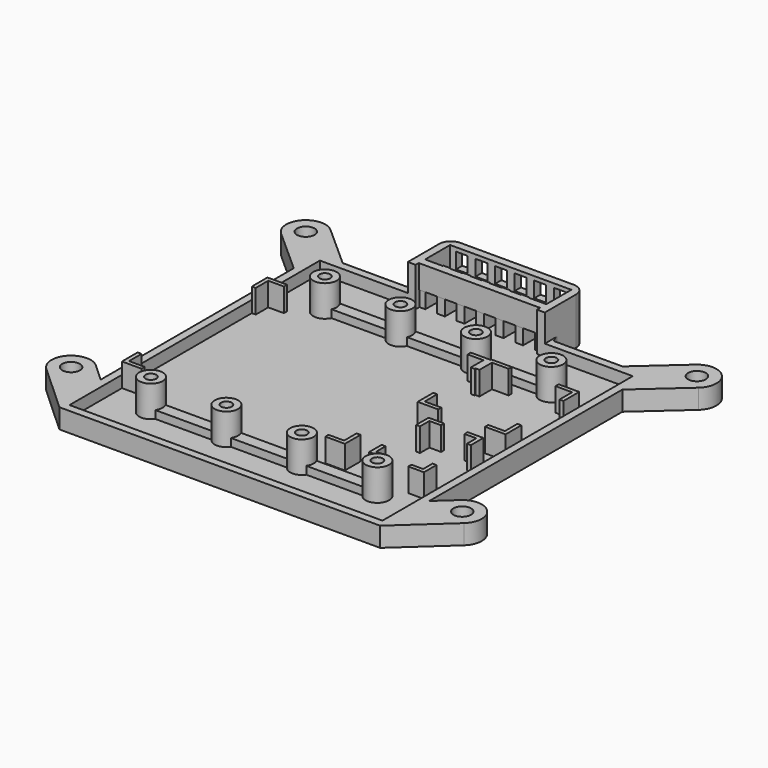
from build123d import *

# Parameters (mm, degrees)
PAD042_DEPTH    = 5
PAD043_DEPTH    = 2
SKETCH114_R     = 3
SKETCH114_R_2   = 1.375
PAD045_DEPTH    = 10
SKETCH215_W     = 16
SKETCH215_H     = 3
PAD095_DEPTH    = 4
SKETCH216_R     = 2.25
POCKET088_DEPTH = 10
SKETCH255_R     = 1.5
POCKET103_DEPTH = 5
PAD_DEPTH       = 12
SKETCH257_W     = 10
SKETCH257_H     = 2
PAD096_DEPTH    = 6
SKETCH258_W     = 2
SKETCH258_H     = 2
PAD097_DEPTH    = 12
SKETCH260_W     = 34
SKETCH260_H     = 2
PAD098_DEPTH    = 6
FILLET_R        = 3
SKETCH261_W     = 3
SKETCH261_H     = 4
POCKET_DEPTH    = 5
PAD099_DEPTH    = 8
PAD100_DEPTH    = 8
PAD101_DEPTH    = 8


with BuildPart() as part:
    # Sketch111 → Pad042 (new body)
    with BuildSketch(Plane.XY):
        with BuildLine():
            Line((42, 34.161779), (42, -27.538221))
            Line((46.626702, -23.309355), (42, -27.538221))
            ThreePointArc((53.373298, -30.690645), (53.690645, -23.626702), (46.626702, -23.309355))
            Line((41, -42), (53.373298, -30.690645))
            Line((41, -42), (-41, -42))
            Line((-53.373298, -30.690645), (-41, -42))
            ThreePointArc((-46.626702, -23.309355), (-53.690645, -23.626702), (-53.373298, -30.690645))
            Line((-46.626702, -23.309355), (-42, -27.538221))
            Line((-42, -27.538221), (-42, 34.161779))
            Line((-42, 34.161779), (-53.328684, 44.269067))
            ThreePointArc((-46.671316, 51.730933), (-53.730933, 51.328684), (-53.328684, 44.269067))
            Line((-35.764466, 42), (-46.671316, 51.730933))
            Line((-35.764466, 42), (-18.264466, 42))
            ThreePointArc((-18.264466, 42), (-17.583594, 43.4239), (-17.5, 45))
            Line((-17.5, 53), (-17.5, 45))
            Line((17.5, 53), (-17.5, 53))
            Line((17.5, 53), (17.5, 45))
            ThreePointArc((17.5, 45), (17.583594, 43.4239), (18.264466, 42))
            Line((35.764466, 42), (18.264466, 42))
            Line((46.671316, 51.730933), (35.764466, 42))
            ThreePointArc((53.328684, 44.269067), (53.730933, 51.328684), (46.671316, 51.730933))
            Line((42, 34.161779), (53.328684, 44.269067))
        make_face()
        Polygon((-40, 40), (-40, -40), (40, -40), (40, 40), (15.5, 40), (15.5, 51), (-15.5, 51), (-15.5, 40), align=None, mode=Mode.SUBTRACT)
    extrude(amount=PAD042_DEPTH)

    # Sketch112 → Pad043 (join)
    with BuildSketch(Plane.XY):
        Polygon((41, 41), (41, -41), (-41, -41), (-41, 41), (-16, 41), (-16, 53), (16, 53), (16, 41), align=None)
    extrude(amount=PAD043_DEPTH)

    # Sketch114 → Pad045 (join)
    with BuildSketch(Plane.XY):
        with Locations((-28.95, 27.805)):
            Circle(SKETCH114_R)
        with Locations((-28.95, 27.805)):
            Circle(SKETCH114_R_2, mode=Mode.SUBTRACT)
        with Locations((-9.65, 27.805)):
            Circle(SKETCH114_R)
        with Locations((-9.65, 27.805)):
            Circle(SKETCH114_R_2, mode=Mode.SUBTRACT)
        with Locations((9.65, 27.805)):
            Circle(SKETCH114_R)
        with Locations((9.65, 27.805)):
            Circle(SKETCH114_R_2, mode=Mode.SUBTRACT)
        with Locations((28.95, 27.805)):
            Circle(SKETCH114_R)
        with Locations((28.95, 27.805)):
            Circle(SKETCH114_R_2, mode=Mode.SUBTRACT)
        with Locations((28.95, -27.805)):
            Circle(SKETCH114_R)
        with Locations((28.95, -27.805)):
            Circle(SKETCH114_R_2, mode=Mode.SUBTRACT)
        with Locations((9.65, -27.805)):
            Circle(SKETCH114_R)
        with Locations((9.65, -27.805)):
            Circle(SKETCH114_R_2, mode=Mode.SUBTRACT)
        with Locations((-9.65, -27.805)):
            Circle(SKETCH114_R)
        with Locations((-9.65, -27.805)):
            Circle(SKETCH114_R_2, mode=Mode.SUBTRACT)
        with Locations((-28.95, -27.805)):
            Circle(SKETCH114_R)
        with Locations((-28.95, -27.805)):
            Circle(SKETCH114_R_2, mode=Mode.SUBTRACT)
    extrude(amount=PAD045_DEPTH)

    # Sketch215 → Pad095 (join)
    with BuildSketch(Plane.XY):
        with Locations((-20, 28)):
            Rectangle(SKETCH215_W, SKETCH215_H)
        with Locations((20, 28)):
            Rectangle(SKETCH215_W, SKETCH215_H)
        with Locations((-20, -28)):
            Rectangle(SKETCH215_W, SKETCH215_H)
        with Locations((20, -28)):
            Rectangle(SKETCH215_W, SKETCH215_H)
        with Locations((0, 28)):
            Rectangle(SKETCH215_W, SKETCH215_H)
        with Locations((0, -28)):
            Rectangle(SKETCH215_W, SKETCH215_H)
    extrude(amount=PAD095_DEPTH)

    # Sketch216 → Pocket088 (cut)
    with BuildSketch(Plane.XY):
        with Locations((-50, 48)):
            Circle(SKETCH216_R)
        with Locations((50, 48)):
            Circle(SKETCH216_R)
        with Locations((50, -27)):
            Circle(SKETCH216_R)
        with Locations((-50, -27)):
            Circle(SKETCH216_R)
    extrude(amount=POCKET088_DEPTH, mode=Mode.SUBTRACT)

    # Sketch255 → Pocket103 (cut, symmetric)
    with BuildSketch(Plane.XY):
        with Locations((-9.65, 27.805)):
            Circle(SKETCH255_R)
        with Locations((9.65, 27.805)):
            Circle(SKETCH255_R)
        with Locations((-9.65, -27.805)):
            Circle(SKETCH255_R)
        with Locations((9.65, -27.805)):
            Circle(SKETCH255_R)
        with Locations((-28.95, 27.805)):
            Circle(SKETCH255_R)
        with Locations((28.95, 27.805)):
            Circle(SKETCH255_R)
        with Locations((28.95, -27.805)):
            Circle(SKETCH255_R)
        with Locations((-28.95, -27.805)):
            Circle(SKETCH255_R)
    extrude(amount=POCKET103_DEPTH, both=True, mode=Mode.SUBTRACT)

    # Sketch → Pad (join)
    with BuildSketch(Plane.XY):
        Polygon((-17.5, 53), (-17.5, 40), (-15.5, 40), (-15.5, 51), (15.5, 51), (15.5, 40), (17.5, 40), (17.5, 53), (15.5, 53), (-15.5, 53), align=None)
    extrude(amount=PAD_DEPTH)

    # Sketch257 → Pad096 (join)
    with BuildSketch(Plane(origin=(0, 0, 0), x_dir=(0, -1, 0), z_dir=(0, 0, 1))):
        with Locations((-46.2, 15)):
            Rectangle(SKETCH257_W, SKETCH257_H)
        with Locations((-46.2, -15)):
            Rectangle(SKETCH257_W, SKETCH257_H)
        with Locations((-46.2, 10)):
            Rectangle(SKETCH257_W, SKETCH257_H)
        with Locations((-46.2, 5)):
            Rectangle(SKETCH257_W, SKETCH257_H)
        with Locations((-46.2, 0)):
            Rectangle(SKETCH257_W, SKETCH257_H)
        with Locations((-46.2, -5)):
            Rectangle(SKETCH257_W, SKETCH257_H)
        with Locations((-46.2, -10)):
            Rectangle(SKETCH257_W, SKETCH257_H)
    extrude(amount=PAD096_DEPTH)

    # Sketch258 → Pad097 (join)
    with BuildSketch(Plane(origin=(0, 0, 0), x_dir=(0, -1, 0), z_dir=(0, 0, 1))):
        with Locations((-42.2, 10)):
            Rectangle(SKETCH258_W, SKETCH258_H)
        with Locations((-42.2, 5)):
            Rectangle(SKETCH258_W, SKETCH258_H)
        with Locations((-42.2, 0)):
            Rectangle(SKETCH258_W, SKETCH258_H)
        with Locations((-42.2, -5)):
            Rectangle(SKETCH258_W, SKETCH258_H)
        with Locations((-42.2, -10)):
            Rectangle(SKETCH258_W, SKETCH258_H)
    extrude(amount=PAD097_DEPTH)

    # Sketch260 (on Face114 of Pad097) → Pad098 (join)
    with BuildSketch(Plane.XY.offset(12)):
        with Locations((0, 42)):
            Rectangle(SKETCH260_W, SKETCH260_H)
    extrude(amount=-PAD098_DEPTH)

    # Fillet
    fillet_edges = [part.edges().sort_by_distance(p)[0] for p in [
        (-17.5, 53, 6),
        (17.5, 53, 6),
    ]]
    fillet(fillet_edges, radius=FILLET_R)

    # Sketch261 (on Face5 of Fillet) → Pocket (cut)
    with BuildSketch(Plane(origin=(0, 53, 0), x_dir=(-1, 0, 0), z_dir=(0, 1, 0))):
        with Locations((-12.5, 9)):
            Rectangle(SKETCH261_W, SKETCH261_H)
        with Locations((-7.5, 9)):
            Rectangle(SKETCH261_W, SKETCH261_H)
        with Locations((-2.5, 9)):
            Rectangle(SKETCH261_W, SKETCH261_H)
        with Locations((2.5, 9)):
            Rectangle(SKETCH261_W, SKETCH261_H)
        with Locations((7.5, 9)):
            Rectangle(SKETCH261_W, SKETCH261_H)
        with Locations((12.5, 9)):
            Rectangle(SKETCH261_W, SKETCH261_H)
    extrude(amount=-POCKET_DEPTH, mode=Mode.SUBTRACT)

    # Sketch262 → Pad099 (join)
    with BuildSketch(Plane.XY):
        Polygon((-39, -22.25), (-35, -22.25), (-35, -23.25), (-40, -23.25), (-40, -18.25), (-39, -18.25), align=None)
        Polygon((-39, 22.25), (-35, 22.25), (-35, 23.25), (-40, 23.25), (-40, 18.25), (-39, 18.25), align=None)
        Polygon((16, -22.25), (12, -22.25), (12, -23.25), (17, -23.25), (17, -18.25), (16, -18.25), align=None)
        Polygon((16, 22.25), (12, 22.25), (12, 23.25), (17, 23.25), (17, 18.25), (16, 18.25), align=None)
    extrude(amount=PAD099_DEPTH)

    # Sketch263 → Pad100 (join)
    with BuildSketch(Plane.XY):
        Polygon((18, 18.5), (17, 18.5), (17, 23.5), (22.25, 23.5), (22.25, 22.5), (18, 22.5), align=None)
        Polygon((38.5, 22.5), (38.5, 18.5), (39.5, 18.5), (39.5, 23.5), (34.25, 23.5), (34.25, 22.5), align=None)
        Polygon((18, 1), (18, 5), (17, 5), (17, 0), (22.25, 0), (22.25, 1), align=None)
        Polygon((38.5, 1), (38.5, 5), (39.5, 5), (39.5, 0), (34.25, 0), (34.25, 1), align=None)
    extrude(amount=PAD100_DEPTH)

    # Sketch264 → Pad101 (join)
    with BuildSketch(Plane.XY):
        Polygon((24, -5), (27, -5), (27, -4), (23, -4), (23, -8), (24, -8), align=None)
        Polygon((36, -5), (33, -5), (33, -4), (37, -4), (37, -8), (36, -8), align=None)
        Polygon((24, -22), (24, -19), (23, -19), (23, -23), (27, -23), (27, -22), align=None)
        Polygon((36, -22), (36, -19), (37, -19), (37, -23), (33, -23), (33, -22), align=None)
    extrude(amount=PAD101_DEPTH)


with BuildPart() as part_1:
    # Body013 placement: moved
    add(part.part.moved(Location((-108, 0, 0))))


solid = part_1.part
